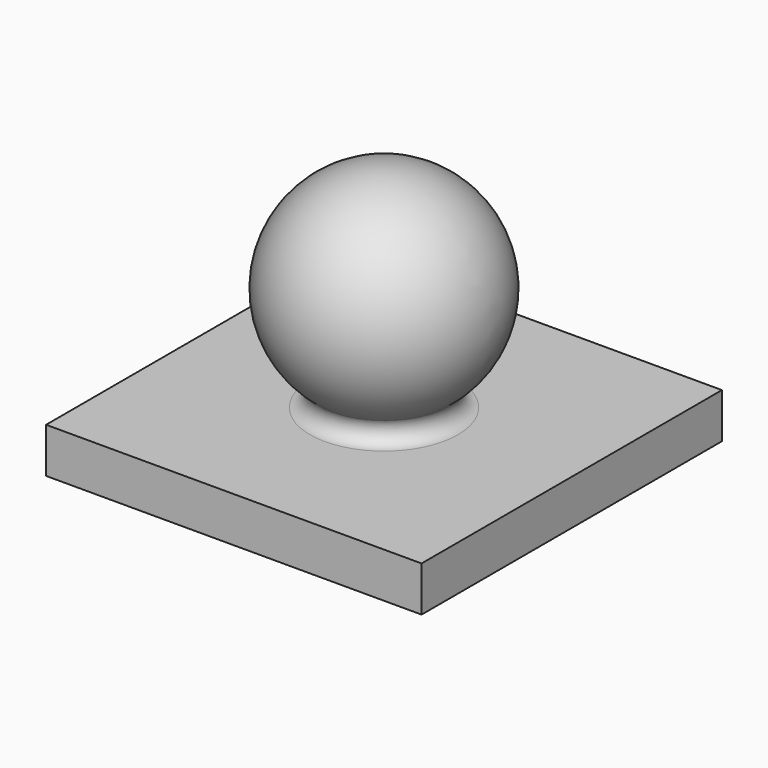
from build123d import *

# Parameters (mm, degrees)
F0_W     = 25
F0_H     = 25
F1_DEPTH = 3


with BuildPart() as f1:
    # F0 (on Top) → F1 (new body)
    with BuildSketch(Plane.XY):
        Rectangle(F0_W, F0_H)
    extrude(amount=F1_DEPTH)

    # F2 (on Front) → F3 (revolve)
    with BuildSketch(Plane.XZ):
        with BuildLine():
            Line((0, 17), (0, 10))
            Line((0, 10), (0, 3))
            ThreePointArc((0, 3), (2.2159452682, 3.3600010114), (4.203964097, 4.4029752662))
            ThreePointArc((4.203964097, 4.4029752662), (6.6399989886, 12.2159452682), (0, 17))
        make_face()
        with BuildLine():
            ThreePointArc((4.203964097, 4.4029752662), (2.2159452682, 3.3600010114), (0, 3))
            Line((0, 3), (4.9237263425, 3))
            ThreePointArc((4.9237263425, 3), (4.159714196, 3.494158067), (4.203964097, 4.4029752662))
        make_face()
    revolve(axis=Axis((0, 0, 6.5), (0, 0, -1)))


solid = f1.part
